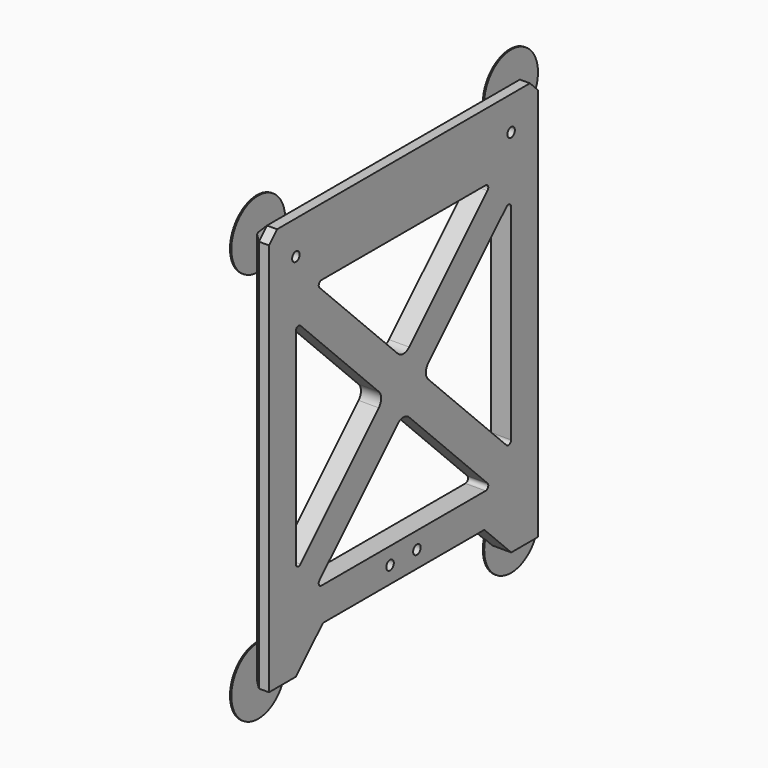
from build123d import *

# Parameters (mm, degrees)
F1_DEPTH       = 6
F2_R           = 1
F3_D           = 2.8
F3_CBORE_D     = 6
F3_CBORE_DEPTH = 2.5
F4_R           = 5
F5_DEPTH       = 2.2
F7_D           = 2.8
F7_CBORE_D     = 6
F7_CBORE_DEPTH = 2.5
F8_SIZE        = 3
F10_DEPTH      = 0.4


with BuildPart() as f1:
    # F0 (on Right) → F1 (new body)
    with BuildSketch(Plane.YZ):
        Polygon((40.0512183458, -60), (50, -60), (50, 60), (-50, 60), (-50, -60), (-40, -60), (-29.9487816542, -50), (30.0512183458, -50), align=None)
        with BuildLine():
            Line((2.1213203436, -9.1923881554), (32.9289321881, -40))
            Line((32.9289321881, -40), (-32.9289321881, -40))
            Line((-32.9289321881, -40), (-2.1213203436, -9.1923881554))
            ThreePointArc((-2.1213203436, -9.1923881554), (0, -8.313708499), (2.1213203436, -9.1923881554))
        make_face(mode=Mode.SUBTRACT)
        with BuildLine():
            Line((-9.1923881554, -2.1213203436), (-40, -32.9289321881))
            Line((-40, -32.9289321881), (-40, 32.9289321881))
            Line((-40, 32.9289321881), (-9.1923881554, 2.1213203436))
            ThreePointArc((-9.1923881554, 2.1213203436), (-8.313708499, 0), (-9.1923881554, -2.1213203436))
        make_face(mode=Mode.SUBTRACT)
        with BuildLine():
            Line((40, 32.9289321881), (40, -32.9289321881))
            Line((40, -32.9289321881), (9.1923881554, -2.1213203436))
            ThreePointArc((9.1923881554, -2.1213203436), (8.313708499, 0), (9.1923881554, 2.1213203436))
            Line((9.1923881554, 2.1213203436), (40, 32.9289321881))
        make_face(mode=Mode.SUBTRACT)
        with BuildLine():
            Line((-32.9289321881, 40), (32.9289321881, 40))
            Line((32.9289321881, 40), (2.1213203436, 9.1923881554))
            ThreePointArc((2.1213203436, 9.1923881554), (0, 8.313708499), (-2.1213203436, 9.1923881554))
            Line((-2.1213203436, 9.1923881554), (-32.9289321881, 40))
        make_face(mode=Mode.SUBTRACT)
    extrude(amount=F1_DEPTH)

    # F2
    f2_edges = [f1.edges().sort_by_distance(p)[0] for p in [
        (3, -32.928932, 40),
        (3, 32.928932, 40),
        (3, -40, 32.928932),
        (3, -40, -32.928932),
        (3, -32.928932, -40),
        (3, 40, 32.928932),
        (3, 40, -32.928932),
        (3, 32.928932, -40),
    ]]
    fillet(f2_edges, radius=F2_R)

    # F3 (through all)
    with Locations(Plane(origin=(0, 0, 0), x_dir=(0, 1, 0), z_dir=(-1, 0, 0))):
        with Locations((-40, -50), (40, -50)):
            CounterBoreHole(F3_D / 2, F3_CBORE_D / 2, F3_CBORE_DEPTH)

    # F4 (on face) → F5 (cut)
    with BuildSketch(Plane(origin=(0, 0, 0), x_dir=(0, -1, 0), z_dir=(-1, 0, 0))):
        Circle(F4_R)
    extrude(amount=-F5_DEPTH, mode=Mode.SUBTRACT)

    # F7 (through all)
    with Locations(Plane(origin=(0, 0, 0), x_dir=(0, -1, 0), z_dir=(-1, 0, 0))):
        with Locations((-5, -45), (5, -45)):
            CounterBoreHole(F7_D / 2, F7_CBORE_D / 2, F7_CBORE_DEPTH)

    # F8
    f8_edges = [f1.edges().sort_by_distance(p)[0] for p in [
        (3, -50, 60),
        (3, 50, 60),
        (0, -50, 0),
        (0, 50, 0),
        (0, 0, 60),
    ]]
    chamfer(f8_edges, length=F8_SIZE)

    # F9 (on face) → F10 (join)
    with BuildSketch(Plane(origin=(0, 0, 0), x_dir=(0, -1, 0), z_dir=(-1, 0, 0))):
        with BuildLine():
            Line((-47, 57), (-37, 57))
            ThreePointArc((-37, 57), (-54.0710678119, 64.0710678119), (-47, 47))
            Line((-47, 47), (-47, 57))
        make_face()
        with BuildLine():
            ThreePointArc((47, 47), (54.0710678119, 64.0710678119), (37, 57))
            Line((37, 57), (47, 57))
            Line((47, 57), (47, 47))
        make_face()
        with BuildLine():
            Line((-47, -60), (-47, -50))
            ThreePointArc((-47, -50), (-53.0480452096, -67.9637396456), (-37.3669885172, -57.3157701715))
            Line((-37.3669885172, -57.3157701715), (-40.0512183458, -60))
            Line((-40.0512183458, -60), (-47, -60))
        make_face()
        with BuildLine():
            ThreePointArc((37.3529996858, -57.3664880981), (53.0689735945, -67.9478021811), (47, -50))
            Line((47, -50), (47, -60))
            Line((47, -60), (40, -60))
            Line((40, -60), (37.3529996858, -57.3664880981))
        make_face()
    extrude(amount=-F10_DEPTH)


solid = f1.part
